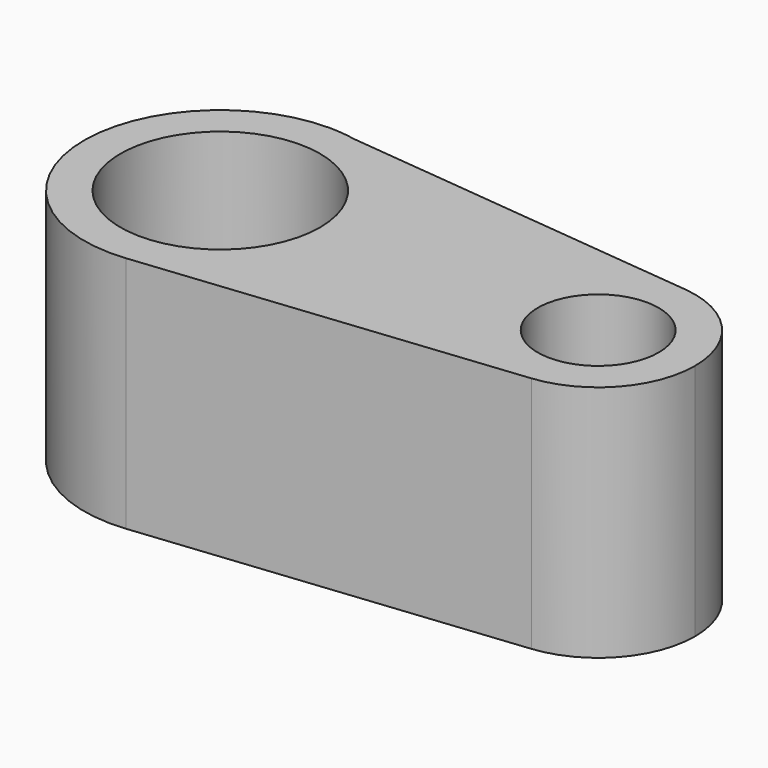
from build123d import *

# Parameters (mm, degrees)
F0_R     = 10.4775
F0_R_2   = 6.35
F1_DEPTH = 25


with BuildPart() as f1:
    # F0 (on Top) → F1 (new body)
    with BuildSketch(Plane.XY):
        with BuildLine():
            Line((2.903655, 13.989333), (0, 14.2875))
            ThreePointArc((0, 14.2875), (-14.268105, -0.744198), (1.486376, -14.209973))
            ThreePointArc((1.486376, -14.209973), (10.615301, -9.562846), (14.2875, 0))
            ThreePointArc((14.2875, 0), (11.081936, 9.017946), (2.903655, 13.989333))
        make_face()
        Circle(F0_R, mode=Mode.SUBTRACT)
        with BuildLine():
            ThreePointArc((2.903655, 13.989333), (1.459462, 14.212763), (0, 14.2875))
            Line((0, 14.2875), (2.903655, 13.989333))
        make_face()
        with BuildLine():
            ThreePointArc((14.2875, 0), (10.615301, -9.562846), (1.486376, -14.209973))
            Line((1.486376, -14.209973), (40.731778, -10.10487))
            ThreePointArc((40.731778, -10.10487), (29.514805, -0.009621), (40.712639, 10.106854))
            Line((40.712639, 10.106854), (2.903655, 13.989333))
            ThreePointArc((2.903655, 13.989333), (11.081936, 9.017946), (14.2875, 0))
        make_face()
        with BuildLine():
            ThreePointArc((40.712639, 10.106854), (29.514805, -0.009621), (40.731778, -10.10487))
            ThreePointArc((40.731778, -10.10487), (47.223459, -6.800246), (49.8348, 0))
            ThreePointArc((49.8348, 0), (47.217016, 6.807391), (40.712639, 10.106854))
        make_face()
        with Locations((39.6748, 0)):
            Circle(F0_R_2, mode=Mode.SUBTRACT)
    extrude(amount=F1_DEPTH)


solid = f1.part
